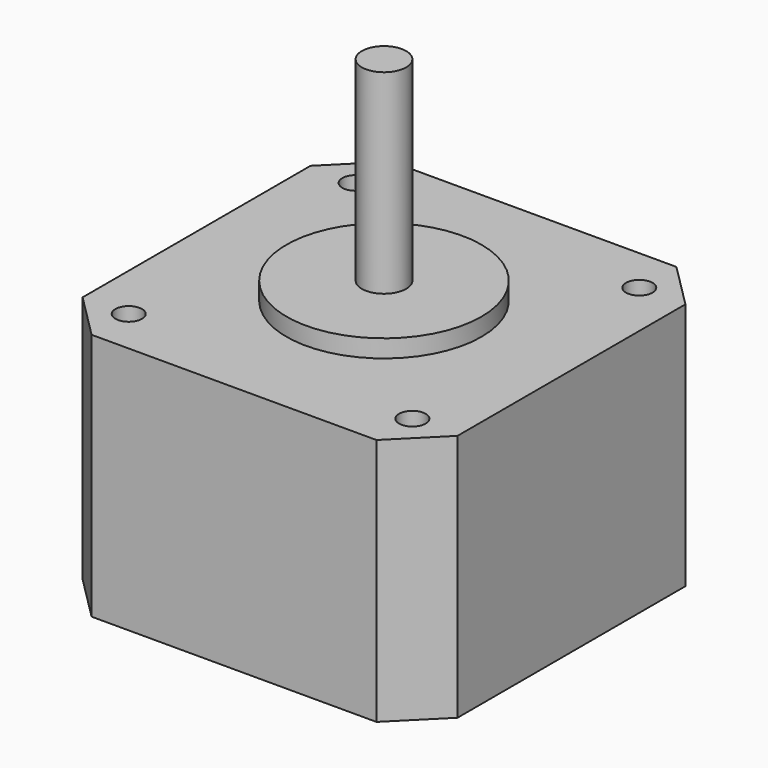
from build123d import *

# Parameters (mm, degrees)
F0_W     = 42.3
F0_H     = 42.3
F1_DEPTH = 28
F2_R     = 11
F3_DEPTH = 2
F4_R     = 2.5
F5_DEPTH = 24
F7_D     = 3
F8_SIZE  = 5.08


with BuildPart() as f1:
    # F0 (on Top) → F1 (new body)
    with BuildSketch(Plane.XY):
        Rectangle(F0_W, F0_H)
    extrude(amount=F1_DEPTH)

    # F2 (on face) → F3 (join)
    with BuildSketch(Plane.XY.offset(28)):
        Circle(F2_R)
    extrude(amount=F3_DEPTH)

    # F4 (on face) → F5 (join)
    with BuildSketch(Plane.XY.offset(28)):
        Circle(F4_R)
    extrude(amount=F5_DEPTH)

    # F7 (through all)
    with Locations(Plane(origin=(0, 0, 0), x_dir=(1, 0, 0), z_dir=(0, 0, -1))):
        with Locations((-16, 16), (16, 16), (-16, -16), (16, -16)):
            Hole(F7_D / 2)

    # F8
    f8_edges = [f1.edges().sort_by_distance(p)[0] for p in [
        (-21.15, -21.15, 14),
        (21.15, -21.15, 14),
        (21.15, 21.15, 14),
        (-21.15, 21.15, 14),
    ]]
    chamfer(f8_edges, length=F8_SIZE)


solid = f1.part
